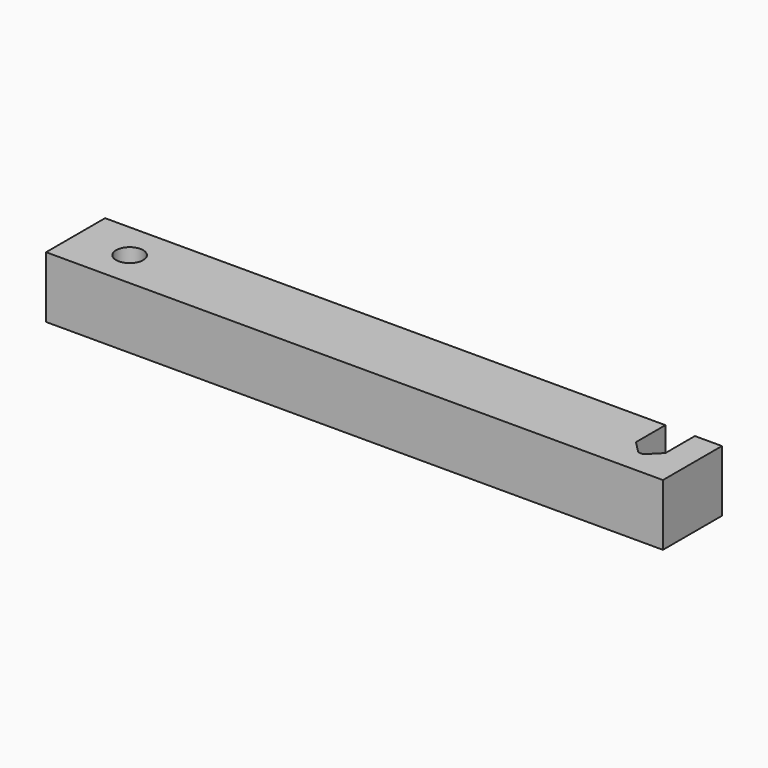
from build123d import *

# Parameters (mm, degrees)
F1_DEPTH = 12.5
F2_R     = 5.5
F3_DEPTH = 25.001
F4_SIZE  = 5


with BuildPart() as f1:
    # F0 (on Top) → F1 (new body, symmetric)
    with BuildSketch(Plane.XY):
        Polygon((102.5, 15), (-125.5, 15), (-125.5, -15), (125.5, -15), (125.5, 15), (114.5, 15), (114.5, -5), (102.5, -5), align=None)
    extrude(amount=F1_DEPTH, both=True)

    # F2 (on face) → F3 (cut, through all)
    with BuildSketch(Plane.XY.offset(12.5)):
        with Locations((-103.5, 0)):
            Circle(F2_R)
    extrude(amount=-F3_DEPTH, mode=Mode.SUBTRACT)

    # F4
    f4_edges = [f1.edges().sort_by_distance(p)[0] for p in [
        (102.5, -5, 0),
        (114.5, -5, 0),
    ]]
    chamfer(f4_edges, length=F4_SIZE)


solid = f1.part
